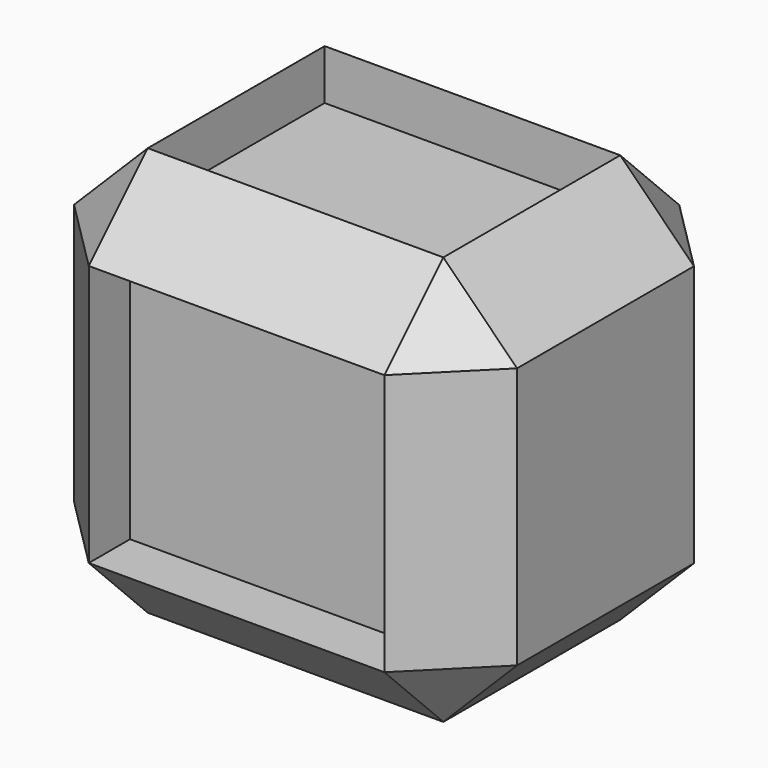
from build123d import *

# Parameters (mm, degrees)
F0_W     = 30.0513710827
F0_H     = 27.739726007
F1_DEPTH = 25
F2_SIZE  = 5
F3_DEPTH = 6.1
F4_DEPTH = 3.4
F5_DEPTH = 3.5


with BuildPart() as f1:
    # F0 (on Front) → F1 (new body)
    with BuildSketch(Plane.XZ):
        with Locations((-15.0256855413, 13.8698630035)):
            Rectangle(F0_W, F0_H)
    extrude(amount=F1_DEPTH)

    # F2
    f2_edges = [f1.edges().sort_by_distance(p)[0] for p in [
        (-15.025686, -25, 27.739726),
        (0, -25, 13.869863),
        (-15.025686, -25, 0),
        (-30.051371, -25, 13.869863),
        (-30.051371, -12.5, 27.739726),
        (0, -12.5, 27.739726),
        (-15.025686, 0, 27.739726),
        (0, 0, 13.869863),
        (-30.051371, 0, 13.869863),
        (-30.051371, -12.5, 0),
        (-15.025686, 0, 0),
        (0, -12.5, 0),
    ]]
    chamfer(f2_edges, length=F2_SIZE)

    # F3 (cut): a face of the model
    f3_faces = [f1.faces().sort_by_distance(p)[0] for p in [
        (-30.0513710827, -12.5, 13.8698630035),
    ]]
    extrude(f3_faces, amount=-F3_DEPTH, mode=Mode.SUBTRACT)

    # F4 (cut): a face of the model
    f4_faces = [f1.faces().sort_by_distance(p)[0] for p in [
        (-15.0256855413, -12.5, 27.739726007),
    ]]
    extrude(f4_faces, amount=-F4_DEPTH, mode=Mode.SUBTRACT)

    # F5 (cut): a face of the model
    f5_faces = [f1.faces().sort_by_distance(p)[0] for p in [
        (-15.0256855413, -25, 13.8698630035),
    ]]
    extrude(f5_faces, amount=-F5_DEPTH, mode=Mode.SUBTRACT)


solid = f1.part
